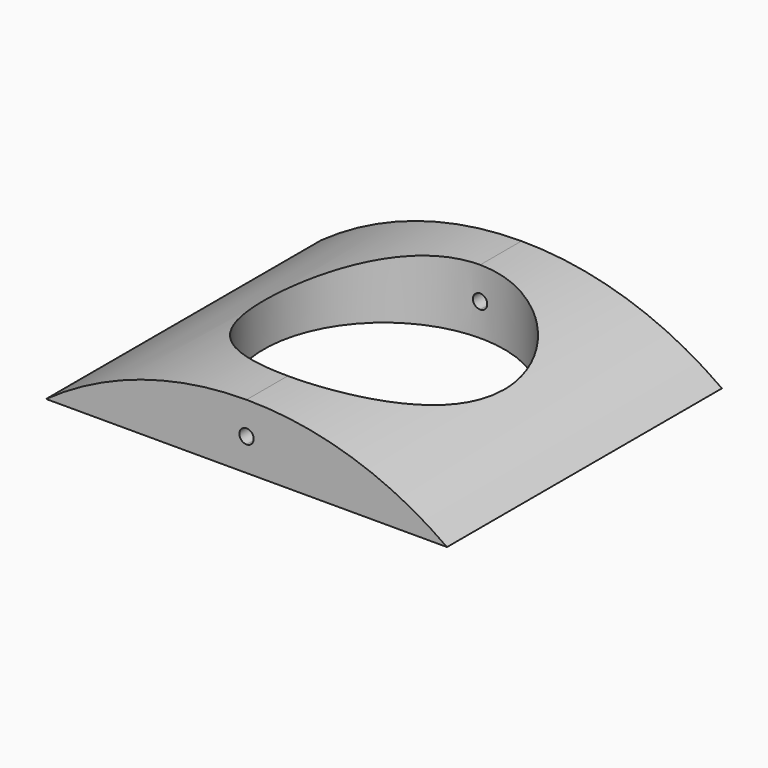
from build123d import *

# Parameters (mm, degrees)
F1_DEPTH = 60
F2_R     = 21
F3_DEPTH = 25


with BuildPart() as f1:
    # F0 (on Front) → F1 (new body)
    with BuildSketch(Plane.XZ):
        with BuildLine():
            ThreePointArc((0, 11.266028276), (-18.3842554453, 8.3801171833), (-35, 0))
            Line((-35, 0), (0, 0))
            Line((0, 0), (0, 4.383014138))
            ThreePointArc((0, 4.383014138), (-1.25, 5.633014138), (0, 6.883014138))
            Line((0, 6.883014138), (0, 11.266028276))
        make_face()
        with BuildLine():
            Line((0, 0), (35, 0))
            ThreePointArc((35, 0), (18.3842554453, 8.3801171833), (0, 11.266028276))
            Line((0, 11.266028276), (0, 6.883014138))
            ThreePointArc((0, 6.883014138), (0.8838834765, 6.5168976145), (1.25, 5.633014138))
            ThreePointArc((1.25, 5.633014138), (0.8838834765, 4.7491306615), (0, 4.383014138))
            Line((0, 4.383014138), (0, 0))
        make_face()
    extrude(amount=F1_DEPTH)

    # F2 (on face) → F3 (cut)
    with BuildSketch(Plane(origin=(0, 0, 0), x_dir=(1, 0, 0), z_dir=(0, 0, -1))):
        with Locations((0, 30)):
            Circle(F2_R)
    extrude(amount=-F3_DEPTH, mode=Mode.SUBTRACT)


solid = f1.part
